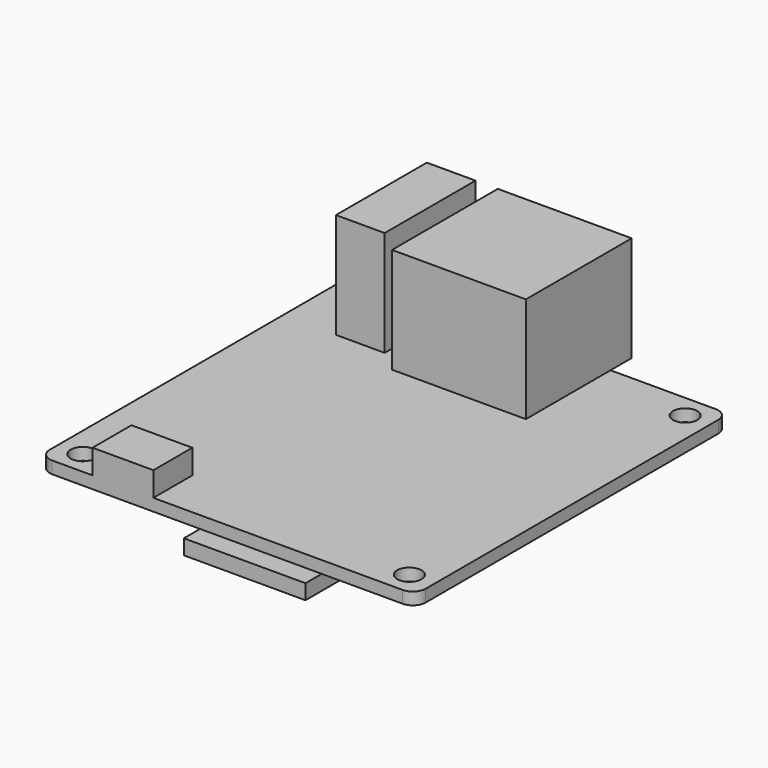
from build123d import *

# Parameters (mm, degrees)
F0_R     = 2.5
F0_R_2   = 1.5
F1_DEPTH = 1.5
F2_W     = 6
F2_H     = 3.25
F2_W_2   = 16.5
F2_H_2   = 10.75
F2_H_3   = 13.05
F3_DEPTH = 13
F2_W_3   = 7.5
F2_H_4   = 6
F4_DEPTH = 3
F5_W     = 15
F5_H     = 15
F6_DEPTH = 1.85


with BuildPart() as f1:
    # F0 (on Top) → F1 (new body)
    with BuildSketch(Plane.XY):
        with BuildLine():
            ThreePointArc((0, 1.5875), (0.464968, 0.464968), (1.5875, 0))
            Line((1.5875, 0), (44.7675, 0))
            ThreePointArc((44.7675, 0), (45.890032, 0.464968), (46.355, 1.5875))
            Line((46.355, 1.5875), (46.355, 46.6725))
            ThreePointArc((46.355, 46.6725), (45.890032, 47.795032), (44.7675, 48.26))
            Line((44.7675, 48.26), (1.5875, 48.26))
            ThreePointArc((1.5875, 48.26), (0.464968, 47.795032), (0, 46.6725))
            Line((0, 46.6725), (0, 1.5875))
        make_face()
        with Locations((3.0525, 2.88)):
            Circle(F0_R, mode=Mode.SUBTRACT)
        with Locations((43.3025, 2.88)):
            Circle(F0_R, mode=Mode.SUBTRACT)
        with Locations((3.0525, 45.38)):
            Circle(F0_R, mode=Mode.SUBTRACT)
        with Locations((43.3025, 45.38)):
            Circle(F0_R, mode=Mode.SUBTRACT)
        with Locations((3.0525, 2.88)):
            Circle(F0_R)
        with Locations((3.0525, 2.88)):
            Circle(F0_R_2, mode=Mode.SUBTRACT)
        with Locations((43.3025, 2.88)):
            Circle(F0_R)
        with Locations((43.3025, 2.88)):
            Circle(F0_R_2, mode=Mode.SUBTRACT)
        with Locations((43.3025, 45.38)):
            Circle(F0_R)
        with Locations((43.3025, 45.38)):
            Circle(F0_R_2, mode=Mode.SUBTRACT)
        with Locations((3.0525, 45.38)):
            Circle(F0_R)
        with Locations((3.0525, 45.38)):
            Circle(F0_R_2, mode=Mode.SUBTRACT)
    extrude(amount=F1_DEPTH)

    # F2 (on face) → F3 (join)
    with BuildSketch(Plane.XY.offset(1.5)):
        with Locations((9.5525, 49.885)):
            Rectangle(F2_W, F2_H)
        with Locations((23.5525, 49.885)):
            Rectangle(F2_W_2, F2_H)
        with Locations((9.5525, 42.885)):
            Rectangle(F2_W, F2_H_2)
        with Locations((23.5525, 41.735)):
            Rectangle(F2_W_2, F2_H_3)
    extrude(amount=F3_DEPTH)

    # F2 (on face) → F4 (join)
    with BuildSketch(Plane.XY.offset(1.5)):
        with Locations((10.3025, 3)):
            Rectangle(F2_W_3, F2_H_4)
    extrude(amount=F4_DEPTH)

    # F5 (on face) → F6 (join)
    with BuildSketch(Plane(origin=(0, 0, 0), x_dir=(1, 0, 0), z_dir=(0, 0, -1))):
        with Locations((27.3025, -5)):
            Rectangle(F5_W, F5_H)
    extrude(amount=F6_DEPTH)


solid = f1.part
